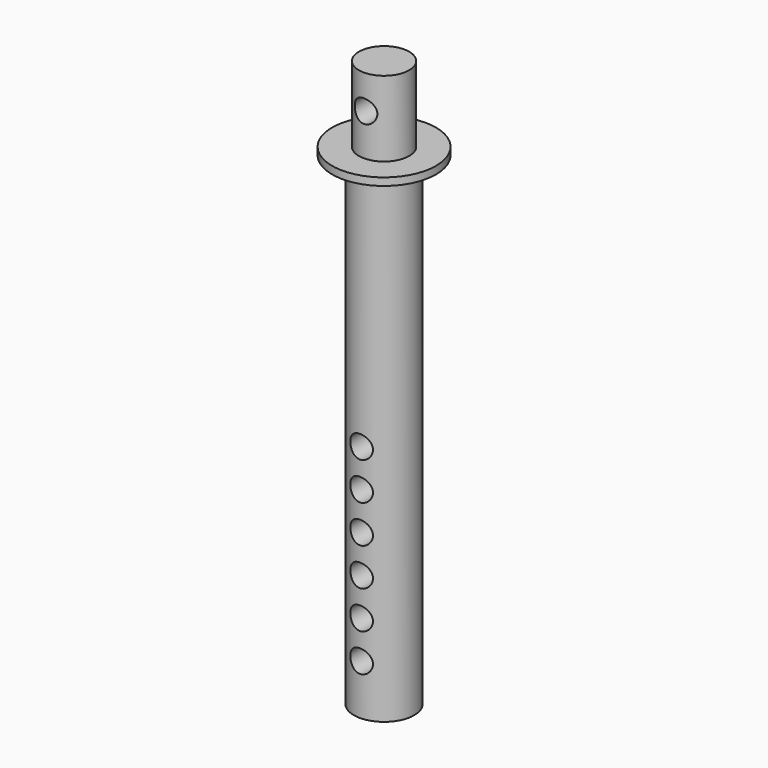
from build123d import *

# Parameters (mm, degrees)
F0_R     = 2
F1_DEPTH = 32
F2_R     = 3.44
F2_R_2   = 2
F3_DEPTH = 0.5
F4_R     = 1.665
F5_DEPTH = 5
F7_R     = 0.75
F8_DEPTH = 10


with BuildPart() as f1:
    # F0 (on Top) → F1 (new body)
    with BuildSketch(Plane.XY):
        Circle(F0_R)
    extrude(amount=F1_DEPTH)

    # F2 (on face) → F3 (join)
    with BuildSketch(Plane.XY.offset(32)):
        Circle(F2_R)
        Circle(F2_R_2, mode=Mode.SUBTRACT)
        Circle(F2_R_2)
    extrude(amount=F3_DEPTH)

    # F4 (on face) → F5 (join)
    with BuildSketch(Plane.XY.offset(32.5)):
        Circle(F4_R)
    extrude(amount=F5_DEPTH)

    # F7 (on offset) → F8 (cut)
    with BuildSketch(Plane.XZ.offset(4)):
        with Locations((0, 3.3206201717)):
            Circle(F7_R)
        with Locations((0, 5.8206201717)):
            Circle(F7_R)
        with Locations((0, 8.3206201717)):
            Circle(F7_R)
        with Locations((0, 10.8206201717)):
            Circle(F7_R)
        with Locations((-0.0019225008, 35.2506788733)):
            Circle(F7_R)
        with Locations((0, 13.3206201717)):
            Circle(F7_R)
        with Locations((0, 15.8206201717)):
            Circle(F7_R)
    extrude(amount=-F8_DEPTH, mode=Mode.SUBTRACT)


solid = f1.part
